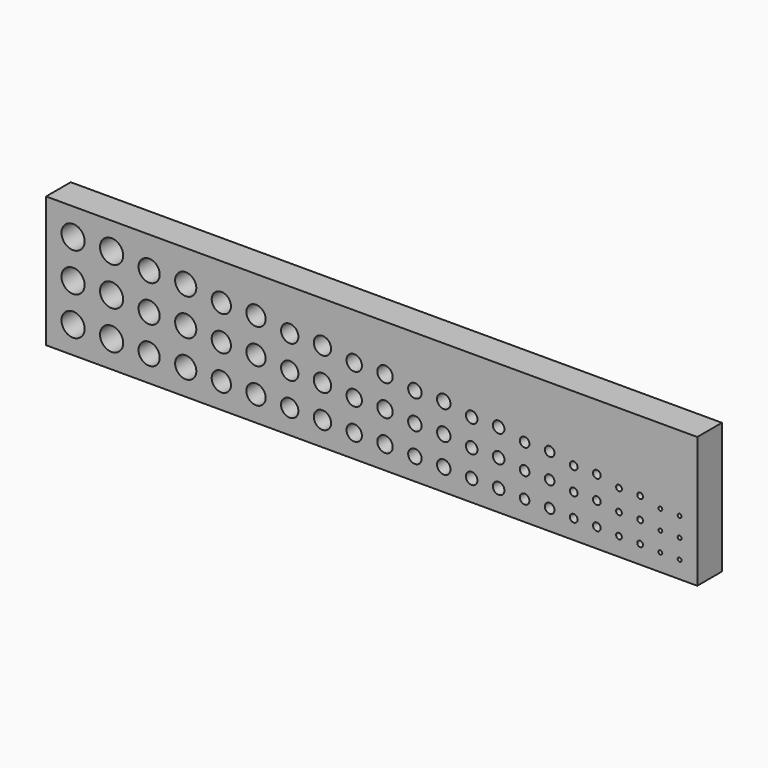
from build123d import *

# Parameters (mm, degrees)
F0_W     = 536.575
F0_H     = 107.95
F0_R     = 9.525
F0_R_2   = 8.7249
F0_R_3   = 7.1374
F0_R_4   = 7.9375
F0_R_5   = 6.35
F0_R_6   = 5.5499
F0_R_7   = 4.7625
F0_R_8   = 3.9624
F0_R_9   = 3.175
F0_R_10  = 2.3749
F0_R_11  = 1.5875
F1_DEPTH = 25.4


with BuildPart() as f1:
    # F0 (on Front) → F1 (new body)
    with BuildSketch(Plane.XZ):
        with Locations((38.201627, 15.935042)):
            Rectangle(F0_W, F0_H)
        with Locations((-207.860873, -15.814958)):
            Circle(F0_R, mode=Mode.SUBTRACT)
        with Locations((-176.110873, -15.814958)):
            Circle(F0_R, mode=Mode.SUBTRACT)
        with Locations((-145.171316, -16.615058)):
            Circle(F0_R_2, mode=Mode.SUBTRACT)
        with Locations((-115.021516, -16.615058)):
            Circle(F0_R_2, mode=Mode.SUBTRACT)
        with Locations((-29.331302, -18.202558)):
            Circle(F0_R_3, mode=Mode.SUBTRACT)
        with Locations((-85.669676, -17.402458)):
            Circle(F0_R_4, mode=Mode.SUBTRACT)
        with Locations((-57.094676, -17.402458)):
            Circle(F0_R_4, mode=Mode.SUBTRACT)
        with Locations((-2.356502, -18.202558)):
            Circle(F0_R_3, mode=Mode.SUBTRACT)
        with Locations((23.819057, -18.989958)):
            Circle(F0_R_5, mode=Mode.SUBTRACT)
        with Locations((-207.860873, 15.935042)):
            Circle(F0_R, mode=Mode.SUBTRACT)
        with Locations((-176.110873, 15.935042)):
            Circle(F0_R, mode=Mode.SUBTRACT)
        with Locations((-145.171316, 13.534742)):
            Circle(F0_R_2, mode=Mode.SUBTRACT)
        with Locations((-115.021516, 13.534742)):
            Circle(F0_R_2, mode=Mode.SUBTRACT)
        with Locations((-29.331302, 8.772242)):
            Circle(F0_R_3, mode=Mode.SUBTRACT)
        with Locations((-85.669676, 11.172542)):
            Circle(F0_R_4, mode=Mode.SUBTRACT)
        with Locations((-57.094676, 11.172542)):
            Circle(F0_R_4, mode=Mode.SUBTRACT)
        with Locations((-2.356502, 8.772242)):
            Circle(F0_R_3, mode=Mode.SUBTRACT)
        with Locations((23.819057, 6.410042)):
            Circle(F0_R_5, mode=Mode.SUBTRACT)
        with Locations((49.219057, -18.989958)):
            Circle(F0_R_5, mode=Mode.SUBTRACT)
        with Locations((73.805942, -19.790058)):
            Circle(F0_R_6, mode=Mode.SUBTRACT)
        with Locations((97.605742, -19.790058)):
            Circle(F0_R_6, mode=Mode.SUBTRACT)
        with Locations((120.604667, -20.577458)):
            Circle(F0_R_7, mode=Mode.SUBTRACT)
        with Locations((164.239623, -21.377558)):
            Circle(F0_R_8, mode=Mode.SUBTRACT)
        with Locations((142.829667, -20.577458)):
            Circle(F0_R_7, mode=Mode.SUBTRACT)
        with Locations((184.864423, -21.377558)):
            Circle(F0_R_8, mode=Mode.SUBTRACT)
        with Locations((204.686189, -22.164958)):
            Circle(F0_R_9, mode=Mode.SUBTRACT)
        with Locations((223.736189, -22.164958)):
            Circle(F0_R_9, mode=Mode.SUBTRACT)
        with Locations((241.968542, -22.965058)):
            Circle(F0_R_10, mode=Mode.SUBTRACT)
        with Locations((259.418342, -22.965058)):
            Circle(F0_R_10, mode=Mode.SUBTRACT)
        with Locations((276.062127, -23.752458)):
            Circle(F0_R_11, mode=Mode.SUBTRACT)
        with Locations((291.937127, -23.752458)):
            Circle(F0_R_11, mode=Mode.SUBTRACT)
        with Locations((120.604667, 1.647542)):
            Circle(F0_R_7, mode=Mode.SUBTRACT)
        with Locations((142.829667, 1.647542)):
            Circle(F0_R_7, mode=Mode.SUBTRACT)
        with Locations((164.239623, -0.752758)):
            Circle(F0_R_8, mode=Mode.SUBTRACT)
        with Locations((49.219057, 6.410042)):
            Circle(F0_R_5, mode=Mode.SUBTRACT)
        with Locations((73.805942, 4.009742)):
            Circle(F0_R_6, mode=Mode.SUBTRACT)
        with Locations((97.605742, 4.009742)):
            Circle(F0_R_6, mode=Mode.SUBTRACT)
        with Locations((204.686189, -3.114958)):
            Circle(F0_R_9, mode=Mode.SUBTRACT)
        with Locations((184.864423, -0.752758)):
            Circle(F0_R_8, mode=Mode.SUBTRACT)
        with Locations((223.736189, -3.114958)):
            Circle(F0_R_9, mode=Mode.SUBTRACT)
        with Locations((241.968542, -5.515258)):
            Circle(F0_R_10, mode=Mode.SUBTRACT)
        with Locations((259.418342, -5.515258)):
            Circle(F0_R_10, mode=Mode.SUBTRACT)
        with Locations((276.062127, -7.877458)):
            Circle(F0_R_11, mode=Mode.SUBTRACT)
        with Locations((291.937127, -7.877458)):
            Circle(F0_R_11, mode=Mode.SUBTRACT)
        with Locations((204.686189, 15.935042)):
            Circle(F0_R_9, mode=Mode.SUBTRACT)
        with Locations((223.736189, 15.935042)):
            Circle(F0_R_9, mode=Mode.SUBTRACT)
        with Locations((276.062127, 7.997542)):
            Circle(F0_R_11, mode=Mode.SUBTRACT)
        with Locations((291.937127, 7.997542)):
            Circle(F0_R_11, mode=Mode.SUBTRACT)
        with Locations((241.968542, 11.934542)):
            Circle(F0_R_10, mode=Mode.SUBTRACT)
        with Locations((259.418342, 11.934542)):
            Circle(F0_R_10, mode=Mode.SUBTRACT)
        with Locations((-29.331302, 35.747042)):
            Circle(F0_R_3, mode=Mode.SUBTRACT)
        with Locations((-85.669676, 39.747542)):
            Circle(F0_R_4, mode=Mode.SUBTRACT)
        with Locations((-57.094676, 39.747542)):
            Circle(F0_R_4, mode=Mode.SUBTRACT)
        with Locations((-2.356502, 35.747042)):
            Circle(F0_R_3, mode=Mode.SUBTRACT)
        with Locations((23.819057, 31.810042)):
            Circle(F0_R_5, mode=Mode.SUBTRACT)
        with Locations((-207.860873, 47.685042)):
            Circle(F0_R, mode=Mode.SUBTRACT)
        with Locations((-176.110873, 47.685042)):
            Circle(F0_R, mode=Mode.SUBTRACT)
        with Locations((-145.171316, 43.684542)):
            Circle(F0_R_2, mode=Mode.SUBTRACT)
        with Locations((-115.021516, 43.684542)):
            Circle(F0_R_2, mode=Mode.SUBTRACT)
        with Locations((73.805942, 27.809542)):
            Circle(F0_R_6, mode=Mode.SUBTRACT)
        with Locations((97.605742, 27.809542)):
            Circle(F0_R_6, mode=Mode.SUBTRACT)
        with Locations((164.239623, 19.872042)):
            Circle(F0_R_8, mode=Mode.SUBTRACT)
        with Locations((120.604667, 23.872542)):
            Circle(F0_R_7, mode=Mode.SUBTRACT)
        with Locations((142.829667, 23.872542)):
            Circle(F0_R_7, mode=Mode.SUBTRACT)
        with Locations((49.219057, 31.810042)):
            Circle(F0_R_5, mode=Mode.SUBTRACT)
        with Locations((184.864423, 19.872042)):
            Circle(F0_R_8, mode=Mode.SUBTRACT)
    extrude(amount=F1_DEPTH)


solid = f1.part
